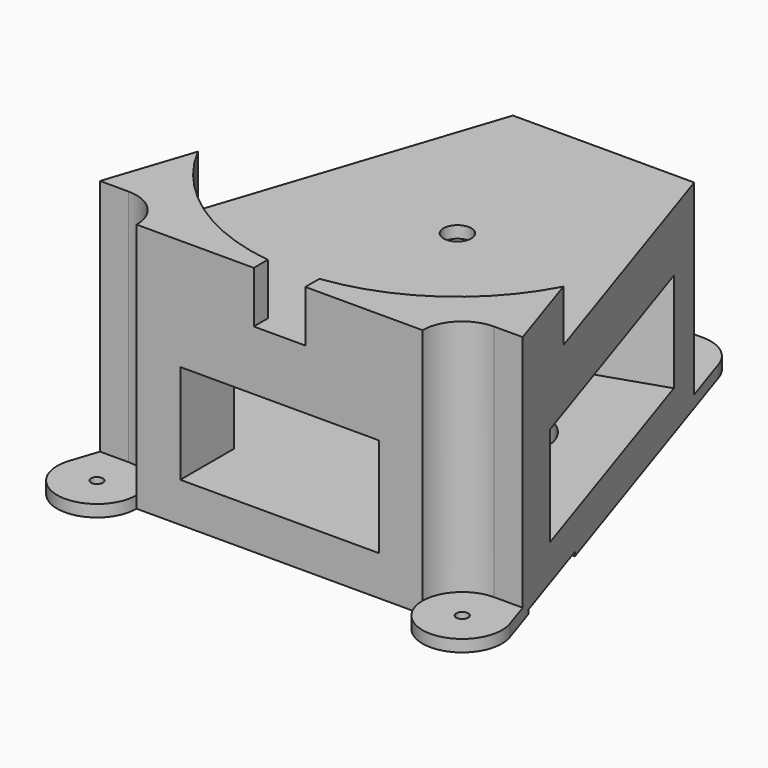
from build123d import *

# Parameters (mm, degrees)
SKETCH_R        = 1.5
SKETCH_R_2      = 10
PAD_DEPTH       = 3
SKETCH001_R     = 10
PAD001_DEPTH    = 60
SKETCH004_W     = 70
SKETCH004_H     = 25
POCKET_DEPTH    = 30
SKETCH005_W     = 70
SKETCH005_H     = 25
POCKET001_DEPTH = 30
SKETCH006_W     = 50
SKETCH006_H     = 25
POCKET002_DEPTH = 80
POCKET003_DEPTH = 13
SKETCH008_R     = 10
SKETCH008_R_2   = 3.5
PAD002_DEPTH    = 3
CHAMFER001_SIZE = 1
SKETCH009_R     = 1.5
POCKET004_DEPTH = 12
POCKET005_DEPTH = 10
POCKET006_DEPTH = 3.5
SKETCH012_W     = 30
SKETCH012_H     = 25
POCKET007_DEPTH = 1


with BuildPart() as part:
    # Sketch → Pad (new body)
    with BuildSketch(Plane.XY):
        with BuildLine():
            ThreePointArc((-9.0000068257, 66), (-14.8579724019, 64.1045764441), (-18.4952748867, 59.1368383489))
            Line((-55.4952734203, -52.8631572125), (-18.4952748867, 59.1368383489))
            ThreePointArc((-55.4952734203, -52.8631572125), (-47.58859463, -65.8730120582), (-36, -56))
            Line((-36, -56), (36, -56))
            ThreePointArc((36, -56), (47.5886025397, -65.8730107855), (55.4952683942, -52.8631419983))
            Line((18.4952730609, 59.1368438754), (55.4952683942, -52.8631419983))
            ThreePointArc((18.4952730609, 59.1368438754), (14.8579671858, 64.1045802143), (8.9999997739, 66))
            Line((-9.0000068257, 66), (8.9999997739, 66))
        make_face()
        with Locations((-9, 56)):
            Circle(SKETCH_R, mode=Mode.SUBTRACT)
        with Locations((9, 56)):
            Circle(SKETCH_R, mode=Mode.SUBTRACT)
        with Locations((-46, -56)):
            Circle(SKETCH_R, mode=Mode.SUBTRACT)
        with Locations((46, -56)):
            Circle(SKETCH_R, mode=Mode.SUBTRACT)
        Circle(SKETCH_R_2, mode=Mode.SUBTRACT)
        with Locations((0, 56)):
            Circle(SKETCH_R, mode=Mode.SUBTRACT)
    extrude(amount=PAD_DEPTH)

    # Sketch001 (on Face16 of Pad) → Pad001 (join)
    with BuildSketch(Plane.XY.offset(3)):
        with BuildLine():
            ThreePointArc((-36, -56), (-38.9289322782, -48.9289320981), (-46.0000002547, -46))
            Line((-53.2279804126, -46), (-46.0000002547, -46))
            Line((-22.8351232698, 46), (-53.2279804126, -46))
            Line((-22.8351232698, 46), (22.8351232698, 46))
            Line((53.2279804126, -46), (22.8351232698, 46))
            Line((45.999999471, -46), (53.2279804126, -46))
            ThreePointArc((45.999999471, -46), (38.9289320011, -48.9289323752), (36, -56))
            Line((-36, -56), (36, -56))
        make_face()
        Circle(SKETCH001_R, mode=Mode.SUBTRACT)
    extrude(amount=PAD001_DEPTH)

    # Sketch004 (on Face25 of Pad001) → Pocket (cut)
    with BuildSketch(Plane(origin=(34.2893542942, 11.3277331151, 0), x_dir=(-0.3136832519, 0.9495276813, 0), z_dir=(0.9495276813, 0.3136832519, 0))):
        with Locations((-10, 22.5)):
            Rectangle(SKETCH004_W, SKETCH004_H)
    extrude(amount=-POCKET_DEPTH, mode=Mode.SUBTRACT)

    # Sketch005 (on Face9 of Pocket) → Pocket001 (cut)
    with BuildSketch(Plane(origin=(-34.2893542942, 11.3277331151, 0), x_dir=(-0.3136832519, -0.9495276813, 0), z_dir=(-0.9495276813, 0.3136832519, 0))):
        with Locations((10, 22.5)):
            Rectangle(SKETCH005_W, SKETCH005_H)
    extrude(amount=-POCKET001_DEPTH, mode=Mode.SUBTRACT)

    # Sketch006 (on Face27 of Pocket001) → Pocket002 (cut)
    with BuildSketch(Plane.XZ.offset(56)):
        with Locations((0, 22.5)):
            Rectangle(SKETCH006_W, SKETCH006_H)
    extrude(amount=-POCKET002_DEPTH, mode=Mode.SUBTRACT)

    # Sketch007 (on Face22 of Pocket002) → Pocket003 (cut)
    with BuildSketch(Plane.XY.offset(63)):
        with BuildLine():
            ThreePointArc((6.5, -51.5921505658), (0, 52), (-6.5, -51.5921505658))
            Line((-6.5, -51.5921505658), (-6.5, -56.5921505658))
            Line((6.5, -56.5921505658), (-6.5, -56.5921505658))
            Line((6.5, -51.5921505658), (6.5, -56.5921505658))
        make_face()
    extrude(amount=-POCKET003_DEPTH, mode=Mode.SUBTRACT)

    # Sketch008 → Pad002 (join)
    with BuildSketch(Plane.XY.offset(50)):
        Circle(SKETCH008_R)
        Circle(SKETCH008_R_2, mode=Mode.SUBTRACT)
    extrude(amount=-PAD002_DEPTH)

    # Chamfer001
    chamfer001_edges = [part.edges().sort_by_distance(p)[0] for p in [
        (7.5, 56, 3),
        (-10.5, 56, 3),
        (-1.5, 56, 0),
    ]]
    chamfer(chamfer001_edges, length=CHAMFER001_SIZE)

    # Sketch009 → Pocket004 (cut)
    with BuildSketch(Plane(origin=(0, 0, 35), x_dir=(1, 0, 0), z_dir=(0, 0, -1))):
        with Locations((-15.25, 0)):
            Circle(SKETCH009_R)
        with Locations((15.25, 0)):
            Circle(SKETCH009_R)
    extrude(amount=-POCKET004_DEPTH, mode=Mode.SUBTRACT)

    # Sketch010 → Pocket005 (cut)
    with BuildSketch(Plane(origin=(0, 0, 0), x_dir=(1, 0, 0), z_dir=(0, 0, -1))):
        with BuildLine():
            ThreePointArc((-12.4999765902, 10), (-22.5, 2e-10), (-12.4999765905, -10))
            Line((12.4999765907, -10), (-12.4999765905, -10))
            ThreePointArc((12.4999765907, -10), (22.5, 4e-10), (12.49997659, 10))
            Line((-12.4999765902, 10), (12.49997659, 10))
        make_face()
    extrude(amount=-POCKET005_DEPTH, mode=Mode.SUBTRACT)

    # Sketch011 (on Face62 of Pocket005) → Pocket006 (cut)
    with BuildSketch(Plane(origin=(0, 0, 35), x_dir=(1, 0, 0), z_dir=(0, 0, -1))):
        Polygon((-15.25, 3.5), (-18.2810889132, 1.75), (-18.2810889132, -1.75), (-15.25, -3.5), (-12.2189110868, -1.75), (-12.2189110868, 1.75), align=None)
        Polygon((15.25, 3.5), (12.2189110868, 1.75), (12.2189110868, -1.75), (15.25, -3.5), (18.2810889132, -1.75), (18.2810889132, 1.75), align=None)
    extrude(amount=-POCKET006_DEPTH, mode=Mode.SUBTRACT)

    # Sketch012 (on Face1 of Pocket006) → Pocket007 (cut)
    with BuildSketch(Plane(origin=(0, 0, 0), x_dir=(1, 0, 0), z_dir=(0, 0, -1))):
        with Locations((-50, 30.5)):
            Rectangle(SKETCH012_W, SKETCH012_H)
        with Locations((50, 30.5)):
            Rectangle(SKETCH012_W, SKETCH012_H)
    extrude(amount=-POCKET007_DEPTH, mode=Mode.SUBTRACT)


solid = part.part
